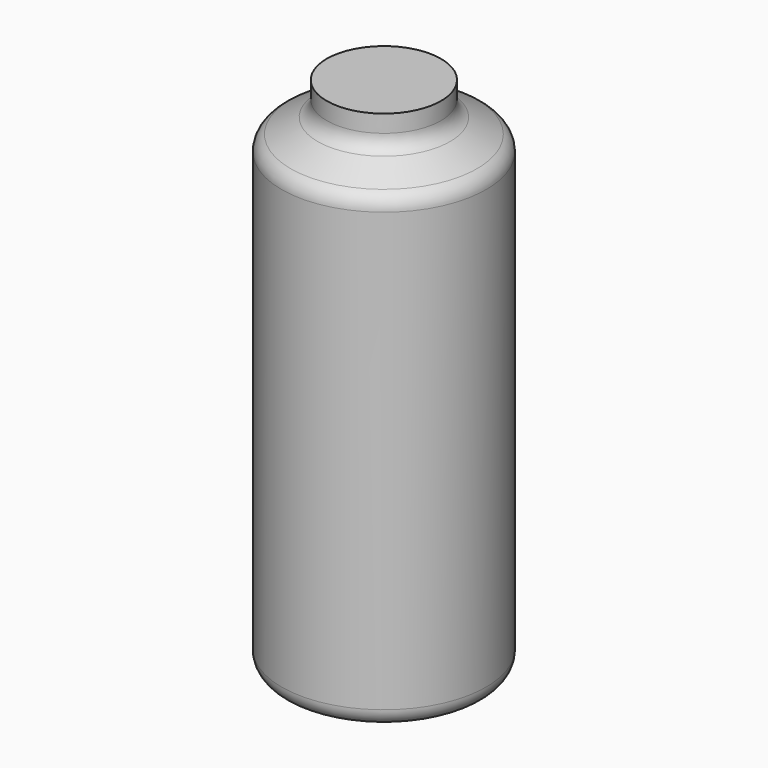
from build123d import *


with BuildPart() as f2:
    # F1 (on face) → F2 (revolve)
    with BuildSketch(Plane.XZ):
        with BuildLine():
            Line((-9.602105, -20.524169), (0, -20.524169))
            Line((0, -20.524169), (0, 38.299421))
            Line((0, 38.299421), (-6.47764, 38.299421))
            Line((-6.47764, 38.299421), (-6.47764, 36.328701))
            ThreePointArc((-6.47764, 36.328701), (-6.753696, 35.31479), (-7.505656, 34.580775))
            Line((-7.505656, 34.580775), (-10.574089, 32.874486))
            ThreePointArc((-10.574089, 32.874486), (-11.32605, 32.140471), (-11.602105, 31.12656))
            Line((-11.602105, 31.12656), (-11.602105, -18.524169))
            ThreePointArc((-11.602105, -18.524169), (-11.016319, -19.938382), (-9.602105, -20.524169))
        make_face()
    revolve(axis=Axis((0, 0, 8.887626), (0, 0, -1)))


solid = f2.part
